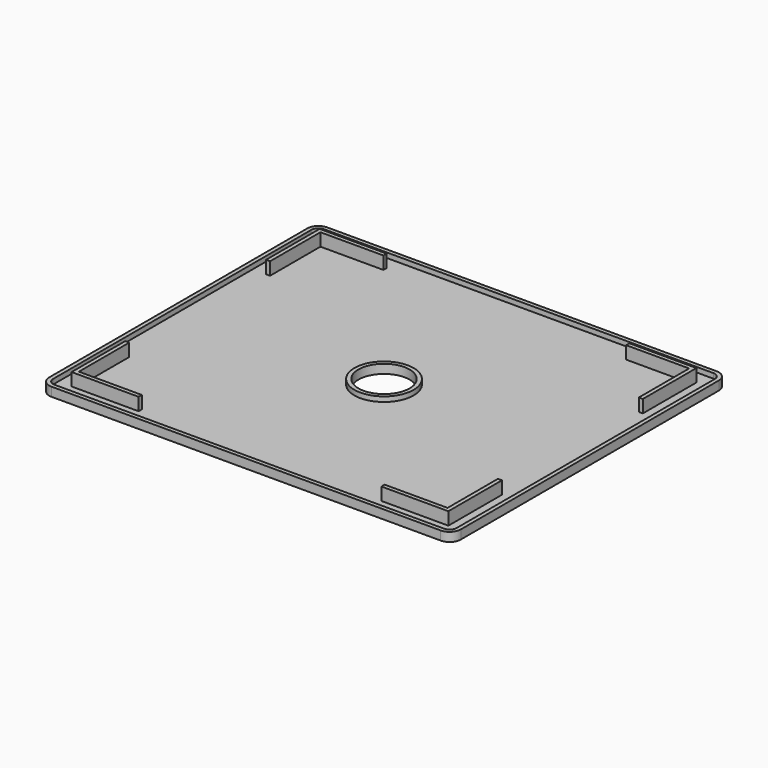
from build123d import *

# Parameters (mm, degrees)
F0_W     = 184.4
F0_H     = 154.5
F0_R     = 11.46558
F1_DEPTH = 4
F2_R     = 5
F3_T     = -1.8
F5_DEPTH = 5.7


with BuildPart() as f1:
    # F0 (on Top) → F1 (new body)
    with BuildSketch(Plane.XY):
        Rectangle(F0_W, F0_H)
        Circle(F0_R, mode=Mode.SUBTRACT)
    extrude(amount=F1_DEPTH)

    # F2
    f2_edges = [f1.edges().sort_by_distance(p)[0] for p in [
        (-92.2, -77.25, 2),
        (-92.2, 77.25, 2),
        (92.2, -77.25, 2),
        (92.2, 77.25, 2),
    ]]
    fillet(f2_edges, radius=F2_R)

    # F3
    f3_openings = [f1.faces().sort_by_distance(p)[0] for p in [
        (0, 74.844307, 4),
    ]]
    offset(amount=F3_T, openings=f3_openings)

    # F4 (on face) → F5 (join)
    with BuildSketch(Plane.XY.offset(1.8)):
        Polygon((-84.4, -39.45), (-84.4, -69.45), (-54.4, -69.45), (-54.4, -67.65), (-82.6, -67.65), (-82.6, -39.45), align=None)
        Polygon((-82.6, 67.65), (-54.4, 67.65), (-54.4, 69.45), (-84.4, 69.45), (-84.4, 39.45), (-82.6, 39.45), align=None)
        Polygon((84.4, -69.45), (84.4, -39.45), (82.6, -39.45), (82.6, -67.65), (54.4, -67.65), (54.4, -69.45), align=None)
        Polygon((82.6, 39.45), (84.4, 39.45), (84.4, 69.45), (54.4, 69.45), (54.4, 67.65), (82.6, 67.65), align=None)
    extrude(amount=F5_DEPTH)


solid = f1.part
